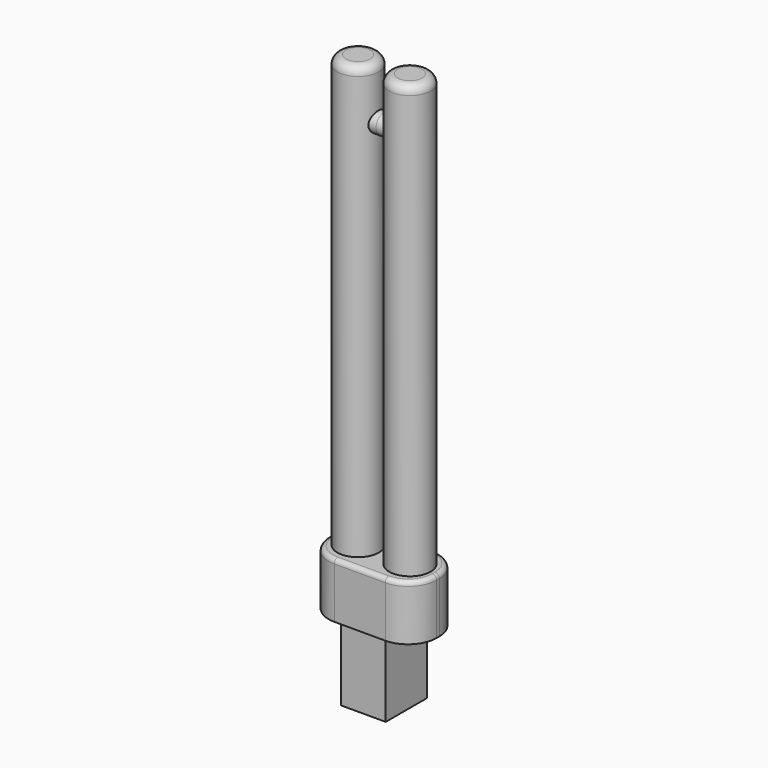
from build123d import *

# Parameters (mm, degrees)
F0_R          = 6.096
F1_DEPTH      = 127
F2_R          = 2.921
F3_DEPTH      = 5.08
F3_DEPTH_BACK = 5.08
F4_R          = 2.54
F6_DEPTH      = 16.256
F7_R          = 1.27
F8_W          = 13.208
F8_H          = 15.24
F9_DEPTH      = 21.844


with BuildPart() as f1:
    # F0 (on Top) → F1 (new body)
    with BuildSketch(Plane.XY):
        with Locations((7.62, 0)):
            Circle(F0_R)
        with Locations((-7.62, 0)):
            Circle(F0_R)
    extrude(amount=F1_DEPTH)

    # F2 (on Right) → F3 (join, two sides)
    with BuildSketch(Plane.YZ) as f3_sk:
        with Locations((0, 111.602642)):
            Circle(F2_R)
    extrude(amount=F3_DEPTH)
    extrude(f3_sk.sketch, amount=-F3_DEPTH_BACK)

    # F4
    f4_edges = [f1.edges().sort_by_distance(p)[0] for p in [
        (-13.716, 0, 127),
        (1.524, 0, 127),
    ]]
    fillet(f4_edges, radius=F4_R)

    # F5 (on Top) → F6 (join)
    with BuildSketch(Plane.XY):
        with BuildLine():
            ThreePointArc((-15.875, -0.508), (-13.419969, -6.434969), (-7.493, -8.89))
            Line((-7.493, -8.89), (7.493, -8.89))
            ThreePointArc((7.493, -8.89), (13.419969, -6.434969), (15.875, -0.508))
            Line((15.875, -0.508), (15.875, 0.508))
            ThreePointArc((15.875, 0.508), (13.419969, 6.434969), (7.493, 8.89))
            Line((7.493, 8.89), (-7.493, 8.89))
            ThreePointArc((-7.493, 8.89), (-13.419969, 6.434969), (-15.875, 0.508))
            Line((-15.875, 0.508), (-15.875, -0.508))
        make_face()
    extrude(amount=-F6_DEPTH)

    # F7
    f7_edges = [f1.edges().sort_by_distance(p)[0] for p in [
        (0, -8.89, 0),
    ]]
    fillet(f7_edges, radius=F7_R)

    # F8 (on face) → F9 (join)
    with BuildSketch(Plane(origin=(0, 0, -16.256), x_dir=(1, 0, 0), z_dir=(0, 0, -1))):
        Rectangle(F8_W, F8_H)
    extrude(amount=F9_DEPTH)


solid = f1.part
